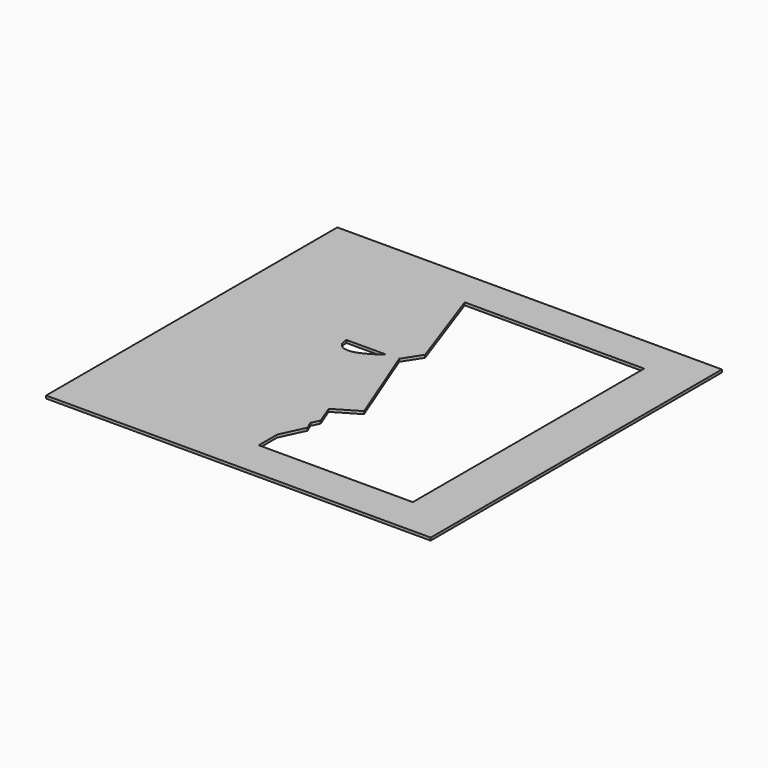
from build123d import *

# Parameters (mm, degrees)
F0_W     = 422.5352112676
F0_H     = 400
F1_DEPTH = 3


with BuildPart() as f1:
    # F0 (on Top) → F1 (new body)
    with BuildSketch(Plane.XY):
        with Locations((246.3268171985, -208.5718737553)):
            Rectangle(F0_W, F0_H)
        with BuildLine():
            Line((171.8222796917, -166.9993698597), (215.8298045397, -166.9993698597))
            add(Edge.make_bspline(
                [(171.8222796917, -166.9993698597), (171.6264039278, -175.9445220232), (183.657964608, -187.1442634513), (203.4894227982, -175.8139282465), (215.8298045397, -166.9993698597)],
                knots=[0, 0, 0, 0, 0.4160297999, 1, 1, 1, 1], degree=3))
        make_face(mode=Mode.SUBTRACT)
        Polygon((404.5187532902, -49.0304529667), (404.5187532902, -366.7587935925), (235.2385669947, -366.7587935925), (235.2385669947, -341.3901627064), (247.5674152374, -315.102905035), (243.8466846943, -306.6595494747), (248.0757389971, -297.6424671021), (239.7763282061, -276.466935873), (266.238451004, -260.8536183834), (228.9955019951, -165.9688949585), (241.6763454676, -146.2935954332), (207.3559015989, -49.0304529667), align=None, mode=Mode.SUBTRACT)
    extrude(amount=F1_DEPTH)


solid = f1.part
